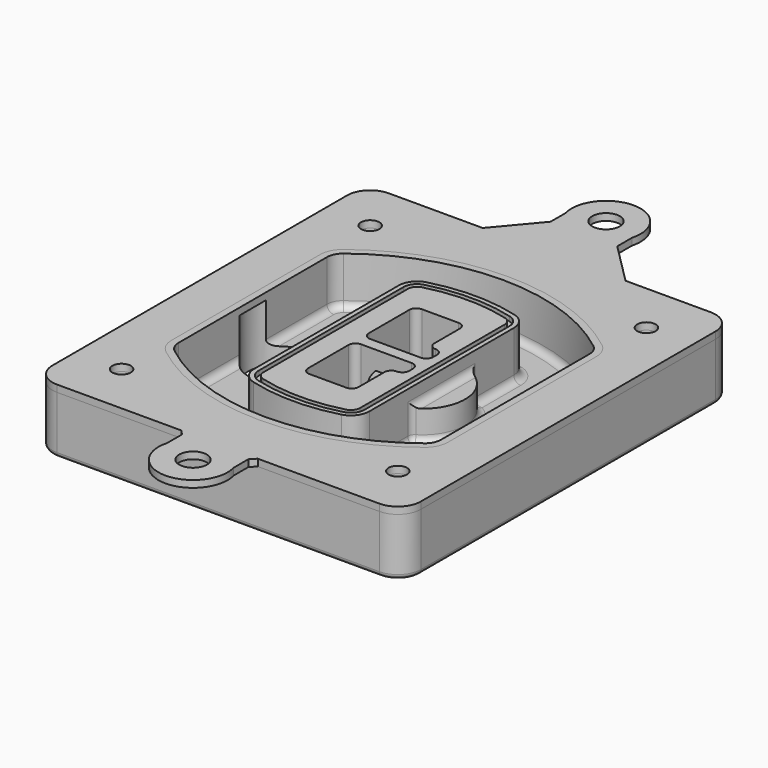
from build123d import *

# Parameters (mm, degrees)
F0_R      = 4
F1_DEPTH  = 25
F2_DEPTH  = 3
F3_DEPTH  = 18
F5_DEPTH  = 21
F6_DEPTH  = 2
F8_DEPTH  = 20
F9_DEPTH  = 16
F10_DEPTH = 25
F7_R      = 6
F7_R_2    = 4
F11_DEPTH = 6
F13_DEPTH = 9
F14_R     = 3
F15_R     = 2
F16_R     = 4
F16_R_2   = 6
F17_DEPTH = 3


with BuildPart() as f1:
    # F0 (on Top) → F1 (new body)
    with BuildSketch(Plane.XY):
        with BuildLine():
            ThreePointArc((-80, -80), (-77.0710678119, -87.0710678119), (-70, -90))
            Line((-70, -90), (70, -90))
            ThreePointArc((70, -90), (77.0710678119, -87.0710678119), (80, -80))
            Line((80, -80), (80, 80))
            ThreePointArc((80, 80), (77.0710678119, 87.0710678119), (70, 90))
            Line((70, 90), (-70, 90))
            ThreePointArc((-70, 90), (-77.0710678119, 87.0710678119), (-80, 80))
            Line((-80, 80), (-80, -80))
        make_face()
        with Locations((-60, -67.5)):
            Circle(F0_R, mode=Mode.SUBTRACT)
        with Locations((60, -67.5)):
            Circle(F0_R, mode=Mode.SUBTRACT)
        with Locations((-60, 67.5)):
            Circle(F0_R, mode=Mode.SUBTRACT)
        with BuildLine():
            ThreePointArc((-64, 40.2934422872), (-62.5820384798, 46.4328484224), (-58.6153846154, 51.3286200352))
            ThreePointArc((-58.6153846154, 51.3286200352), (0, 71.5), (58.6153846154, 51.3286200352))
            ThreePointArc((58.6153846154, 51.3286200352), (62.5820384798, 46.4328484224), (64, 40.2934422872))
            Line((64, 40.2934422872), (64, -40.2934422872))
            ThreePointArc((64, -40.2934422872), (62.5820384798, -46.4328484224), (58.6153846154, -51.3286200352))
            ThreePointArc((58.6153846154, -51.3286200352), (0, -71.5), (-58.6153846154, -51.3286200352))
            ThreePointArc((-58.6153846154, -51.3286200352), (-62.5820384798, -46.4328484224), (-64, -40.2934422872))
            Line((-64, -40.2934422872), (-64, 40.2934422872))
        make_face(mode=Mode.SUBTRACT)
        with Locations((60, 67.5)):
            Circle(F0_R, mode=Mode.SUBTRACT)
        with BuildLine():
            ThreePointArc((58.6153846154, 51.3286200352), (0, 71.5), (-58.6153846154, 51.3286200352))
            ThreePointArc((-58.6153846154, 51.3286200352), (-62.5820384798, 46.4328484224), (-64, 40.2934422872))
            Line((-64, 40.2934422872), (-64, -40.2934422872))
            ThreePointArc((-64, -40.2934422872), (-62.5820384798, -46.4328484224), (-58.6153846154, -51.3286200352))
            ThreePointArc((-58.6153846154, -51.3286200352), (0, -71.5), (58.6153846154, -51.3286200352))
            ThreePointArc((58.6153846154, -51.3286200352), (62.5820384798, -46.4328484224), (64, -40.2934422872))
            Line((64, -40.2934422872), (64, 40.2934422872))
            ThreePointArc((64, 40.2934422872), (62.5820384798, 46.4328484224), (58.6153846154, 51.3286200352))
        make_face()
        with BuildLine():
            Line((-60, -40.2934422872), (-60, 40.2934422872))
            ThreePointArc((-60, 40.2934422872), (-58.9871703427, 44.6787323838), (-56.1538461538, 48.1757121072))
            ThreePointArc((-56.1538461538, 48.1757121072), (0, 67.5), (56.1538461538, 48.1757121072))
            ThreePointArc((56.1538461538, 48.1757121072), (58.9871703427, 44.6787323838), (60, 40.2934422872))
            Line((60, 40.2934422872), (60, -40.2934422872))
            ThreePointArc((60, -40.2934422872), (58.9871703427, -44.6787323838), (56.1538461538, -48.1757121072))
            ThreePointArc((56.1538461538, -48.1757121072), (0, -67.5), (-56.1538461538, -48.1757121072))
            ThreePointArc((-56.1538461538, -48.1757121072), (-58.9871703427, -44.6787323838), (-60, -40.2934422872))
        make_face(mode=Mode.SUBTRACT)
        with BuildLine():
            ThreePointArc((-56.1538461538, 48.1757121072), (-58.9871703427, 44.6787323838), (-60, 40.2934422872))
            Line((-60, 40.2934422872), (-60, -40.2934422872))
            ThreePointArc((-60, -40.2934422872), (-58.9871703427, -44.6787323838), (-56.1538461538, -48.1757121072))
            ThreePointArc((-56.1538461538, -48.1757121072), (0, -67.5), (56.1538461538, -48.1757121072))
            ThreePointArc((56.1538461538, -48.1757121072), (58.9871703427, -44.6787323838), (60, -40.2934422872))
            Line((60, -40.2934422872), (60, 40.2934422872))
            ThreePointArc((60, 40.2934422872), (58.9871703427, 44.6787323838), (56.1538461538, 48.1757121072))
            ThreePointArc((56.1538461538, 48.1757121072), (0, 67.5), (-56.1538461538, 48.1757121072))
        make_face()
        with BuildLine():
            ThreePointArc((54.3076923077, 45.8110311612), (56.2910192399, 43.3631453548), (57, 40.2934422872))
            Line((57, 40.2934422872), (57, -40.2934422872))
            ThreePointArc((57, -40.2934422872), (56.2910192399, -43.3631453548), (54.3076923077, -45.8110311612))
            ThreePointArc((54.3076923077, -45.8110311612), (0, -64.5), (-54.3076923077, -45.8110311612))
            ThreePointArc((-54.3076923077, -45.8110311612), (-56.2910192399, -43.3631453548), (-57, -40.2934422872))
            Line((-57, -40.2934422872), (-57, 40.2934422872))
            ThreePointArc((-57, 40.2934422872), (-56.2910192399, 43.3631453548), (-54.3076923077, 45.8110311612))
            ThreePointArc((-54.3076923077, 45.8110311612), (0, 64.5), (54.3076923077, 45.8110311612))
        make_face(mode=Mode.SUBTRACT)
        with BuildLine():
            Line((57, -40.2934422872), (57, 40.2934422872))
            ThreePointArc((57, 40.2934422872), (56.2910192399, 43.3631453548), (54.3076923077, 45.8110311612))
            ThreePointArc((54.3076923077, 45.8110311612), (0, 64.5), (-54.3076923077, 45.8110311612))
            ThreePointArc((-54.3076923077, 45.8110311612), (-56.2910192399, 43.3631453548), (-57, 40.2934422872))
            Line((-57, 40.2934422872), (-57, -40.2934422872))
            ThreePointArc((-57, -40.2934422872), (-56.2910192399, -43.3631453548), (-54.3076923077, -45.8110311612))
            ThreePointArc((-54.3076923077, -45.8110311612), (0, -64.5), (54.3076923077, -45.8110311612))
            ThreePointArc((54.3076923077, -45.8110311612), (56.2910192399, -43.3631453548), (57, -40.2934422872))
        make_face()
    extrude(amount=-F1_DEPTH)

    # F0 (on Top) → F2 (join)
    with BuildSketch(Plane.XY):
        with BuildLine():
            ThreePointArc((-56.1538461538, 48.1757121072), (-58.9871703427, 44.6787323838), (-60, 40.2934422872))
            Line((-60, 40.2934422872), (-60, -40.2934422872))
            ThreePointArc((-60, -40.2934422872), (-58.9871703427, -44.6787323838), (-56.1538461538, -48.1757121072))
            ThreePointArc((-56.1538461538, -48.1757121072), (0, -67.5), (56.1538461538, -48.1757121072))
            ThreePointArc((56.1538461538, -48.1757121072), (58.9871703427, -44.6787323838), (60, -40.2934422872))
            Line((60, -40.2934422872), (60, 40.2934422872))
            ThreePointArc((60, 40.2934422872), (58.9871703427, 44.6787323838), (56.1538461538, 48.1757121072))
            ThreePointArc((56.1538461538, 48.1757121072), (0, 67.5), (-56.1538461538, 48.1757121072))
        make_face()
        with BuildLine():
            ThreePointArc((54.3076923077, 45.8110311612), (56.2910192399, 43.3631453548), (57, 40.2934422872))
            Line((57, 40.2934422872), (57, -40.2934422872))
            ThreePointArc((57, -40.2934422872), (56.2910192399, -43.3631453548), (54.3076923077, -45.8110311612))
            ThreePointArc((54.3076923077, -45.8110311612), (0, -64.5), (-54.3076923077, -45.8110311612))
            ThreePointArc((-54.3076923077, -45.8110311612), (-56.2910192399, -43.3631453548), (-57, -40.2934422872))
            Line((-57, -40.2934422872), (-57, 40.2934422872))
            ThreePointArc((-57, 40.2934422872), (-56.2910192399, 43.3631453548), (-54.3076923077, 45.8110311612))
            ThreePointArc((-54.3076923077, 45.8110311612), (0, 64.5), (54.3076923077, 45.8110311612))
        make_face(mode=Mode.SUBTRACT)
    extrude(amount=F2_DEPTH)

    # F0 (on Top) → F3 (cut)
    with BuildSketch(Plane.XY):
        with BuildLine():
            Line((57, -40.2934422872), (57, 40.2934422872))
            ThreePointArc((57, 40.2934422872), (56.2910192399, 43.3631453548), (54.3076923077, 45.8110311612))
            ThreePointArc((54.3076923077, 45.8110311612), (0, 64.5), (-54.3076923077, 45.8110311612))
            ThreePointArc((-54.3076923077, 45.8110311612), (-56.2910192399, 43.3631453548), (-57, 40.2934422872))
            Line((-57, 40.2934422872), (-57, -40.2934422872))
            ThreePointArc((-57, -40.2934422872), (-56.2910192399, -43.3631453548), (-54.3076923077, -45.8110311612))
            ThreePointArc((-54.3076923077, -45.8110311612), (0, -64.5), (54.3076923077, -45.8110311612))
            ThreePointArc((54.3076923077, -45.8110311612), (56.2910192399, -43.3631453548), (57, -40.2934422872))
        make_face()
    extrude(amount=-F3_DEPTH, mode=Mode.SUBTRACT)

    # F4 (on face) → F5 (join, through all)
    with BuildSketch(Plane.XY.offset(3)):
        with BuildLine():
            ThreePointArc((-25, -39.2465276821), (-23.3511545998, -44.1109737193), (-19.0842911877, -46.9702398883))
            ThreePointArc((-19.0842911877, -46.9702398883), (0, -49.5), (19.0842911877, -46.9702398883))
            ThreePointArc((19.0842911877, -46.9702398883), (23.3511545998, -44.1109737193), (25, -39.2465276821))
            Line((25, -39.2465276821), (25, 39.2465276821))
            ThreePointArc((25, 39.2465276821), (23.3511545998, 44.1109737193), (19.0842911877, 46.9702398883))
            ThreePointArc((19.0842911877, 46.9702398883), (0, 49.5), (-19.0842911877, 46.9702398883))
            ThreePointArc((-19.0842911877, 46.9702398883), (-23.3511545998, 44.1109737193), (-25, 39.2465276821))
            Line((-25, 39.2465276821), (-25, -39.2465276821))
        make_face()
        with BuildLine():
            ThreePointArc((18.5632183908, 45.0393118368), (21.7633659499, 42.89486221), (23, 39.2465276821))
            Line((23, 39.2465276821), (23, -39.2465276821))
            ThreePointArc((23, -39.2465276821), (21.7633659499, -42.89486221), (18.5632183908, -45.0393118368))
            ThreePointArc((18.5632183908, -45.0393118368), (0, -47.5), (-18.5632183908, -45.0393118368))
            ThreePointArc((-18.5632183908, -45.0393118368), (-21.7633659499, -42.89486221), (-23, -39.2465276821))
            Line((-23, -39.2465276821), (-23, 39.2465276821))
            ThreePointArc((-23, 39.2465276821), (-21.7633659499, 42.89486221), (-18.5632183908, 45.0393118368))
            ThreePointArc((-18.5632183908, 45.0393118368), (0, 47.5), (18.5632183908, 45.0393118368))
        make_face(mode=Mode.SUBTRACT)
        with BuildLine():
            Line((23, -39.2465276821), (23, 39.2465276821))
            ThreePointArc((23, 39.2465276821), (21.7633659499, 42.89486221), (18.5632183908, 45.0393118368))
            ThreePointArc((18.5632183908, 45.0393118368), (0, 47.5), (-18.5632183908, 45.0393118368))
            ThreePointArc((-18.5632183908, 45.0393118368), (-21.7633659499, 42.89486221), (-23, 39.2465276821))
            Line((-23, 39.2465276821), (-23, -39.2465276821))
            ThreePointArc((-23, -39.2465276821), (-21.7633659499, -42.89486221), (-18.5632183908, -45.0393118368))
            ThreePointArc((-18.5632183908, -45.0393118368), (0, -47.5), (18.5632183908, -45.0393118368))
            ThreePointArc((18.5632183908, -45.0393118368), (21.7633659499, -42.89486221), (23, -39.2465276821))
        make_face()
        with BuildLine():
            ThreePointArc((18.0421455939, 43.1083837852), (20.1755772999, 41.6787507007), (21, 39.2465276821))
            Line((21, 39.2465276821), (21, -39.2465276821))
            ThreePointArc((21, -39.2465276821), (20.1755772999, -41.6787507007), (18.0421455939, -43.1083837852))
            ThreePointArc((18.0421455939, -43.1083837852), (0, -45.5), (-18.0421455939, -43.1083837852))
            ThreePointArc((-18.0421455939, -43.1083837852), (-20.1755772999, -41.6787507007), (-21, -39.2465276821))
            Line((-21, -39.2465276821), (-21, 39.2465276821))
            ThreePointArc((-21, 39.2465276821), (-20.1755772999, 41.6787507007), (-18.0421455939, 43.1083837852))
            ThreePointArc((-18.0421455939, 43.1083837852), (0, 45.5), (18.0421455939, 43.1083837852))
        make_face(mode=Mode.SUBTRACT)
        with BuildLine():
            Line((21, -39.2465276821), (21, 39.2465276821))
            ThreePointArc((21, 39.2465276821), (20.1755772999, 41.6787507007), (18.0421455939, 43.1083837852))
            ThreePointArc((18.0421455939, 43.1083837852), (0, 45.5), (-18.0421455939, 43.1083837852))
            ThreePointArc((-18.0421455939, 43.1083837852), (-20.1755772999, 41.6787507007), (-21, 39.2465276821))
            Line((-21, 39.2465276821), (-21, -39.2465276821))
            ThreePointArc((-21, -39.2465276821), (-20.1755772999, -41.6787507007), (-18.0421455939, -43.1083837852))
            ThreePointArc((-18.0421455939, -43.1083837852), (0, -45.5), (18.0421455939, -43.1083837852))
            ThreePointArc((18.0421455939, -43.1083837852), (20.1755772999, -41.6787507007), (21, -39.2465276821))
        make_face()
        with BuildLine():
            Line((-8, -2.5), (14, -2.5))
            ThreePointArc((14, -2.5), (16.1213203436, -3.3786796564), (17, -5.5))
            Line((17, -5.5), (17, -7.5))
            ThreePointArc((17, -7.5), (16.1213203436, -9.6213203436), (14, -10.5))
            ThreePointArc((14, -10.5), (11.8786796564, -11.3786796564), (11, -13.5))
            Line((11, -13.5), (11, -27.5))
            ThreePointArc((11, -27.5), (10.1213203436, -29.6213203436), (8, -30.5))
            Line((8, -30.5), (-8, -30.5))
            ThreePointArc((-8, -30.5), (-10.1213203436, -29.6213203436), (-11, -27.5))
            Line((-11, -27.5), (-11, -5.5))
            ThreePointArc((-11, -5.5), (-10.1213203436, -3.3786796564), (-8, -2.5))
        make_face(mode=Mode.SUBTRACT)
        with BuildLine():
            ThreePointArc((-8, 2.5), (-10.1213203436, 3.3786796564), (-11, 5.5))
            Line((-11, 5.5), (-11, 27.5))
            ThreePointArc((-11, 27.5), (-10.1213203436, 29.6213203436), (-8, 30.5))
            Line((-8, 30.5), (8, 30.5))
            ThreePointArc((8, 30.5), (10.1213203436, 29.6213203436), (11, 27.5))
            Line((11, 27.5), (11, 13.5))
            ThreePointArc((11, 13.5), (11.8786796564, 11.3786796564), (14, 10.5))
            ThreePointArc((14, 10.5), (16.1213203436, 9.6213203436), (17, 7.5))
            Line((17, 7.5), (17, 5.5))
            ThreePointArc((17, 5.5), (16.1213203436, 3.3786796564), (14, 2.5))
            Line((14, 2.5), (-8, 2.5))
        make_face(mode=Mode.SUBTRACT)
    extrude(amount=-F5_DEPTH)

    # F4 (on face) → F6 (cut)
    with BuildSketch(Plane.XY.offset(3)):
        with BuildLine():
            Line((23, -39.2465276821), (23, 39.2465276821))
            ThreePointArc((23, 39.2465276821), (21.7633659499, 42.89486221), (18.5632183908, 45.0393118368))
            ThreePointArc((18.5632183908, 45.0393118368), (0, 47.5), (-18.5632183908, 45.0393118368))
            ThreePointArc((-18.5632183908, 45.0393118368), (-21.7633659499, 42.89486221), (-23, 39.2465276821))
            Line((-23, 39.2465276821), (-23, -39.2465276821))
            ThreePointArc((-23, -39.2465276821), (-21.7633659499, -42.89486221), (-18.5632183908, -45.0393118368))
            ThreePointArc((-18.5632183908, -45.0393118368), (0, -47.5), (18.5632183908, -45.0393118368))
            ThreePointArc((18.5632183908, -45.0393118368), (21.7633659499, -42.89486221), (23, -39.2465276821))
        make_face()
        with BuildLine():
            ThreePointArc((18.0421455939, 43.1083837852), (20.1755772999, 41.6787507007), (21, 39.2465276821))
            Line((21, 39.2465276821), (21, -39.2465276821))
            ThreePointArc((21, -39.2465276821), (20.1755772999, -41.6787507007), (18.0421455939, -43.1083837852))
            ThreePointArc((18.0421455939, -43.1083837852), (0, -45.5), (-18.0421455939, -43.1083837852))
            ThreePointArc((-18.0421455939, -43.1083837852), (-20.1755772999, -41.6787507007), (-21, -39.2465276821))
            Line((-21, -39.2465276821), (-21, 39.2465276821))
            ThreePointArc((-21, 39.2465276821), (-20.1755772999, 41.6787507007), (-18.0421455939, 43.1083837852))
            ThreePointArc((-18.0421455939, 43.1083837852), (0, 45.5), (18.0421455939, 43.1083837852))
        make_face(mode=Mode.SUBTRACT)
    extrude(amount=-F6_DEPTH, mode=Mode.SUBTRACT)

    # F7 (on face) → F8 (join)
    with BuildSketch(Plane(origin=(0, 0, -25), x_dir=(1, 0, 0), z_dir=(0, 0, -1))):
        with BuildLine():
            ThreePointArc((3.28842436, 0), (16.7567035675, 13.4682792075), (30.224982775, 0))
            Line((30.224982775, 0), (35.224982775, 0))
            ThreePointArc((35.224982775, 0), (16.7567035675, 18.4682792075), (-1.71157564, 0))
            Line((-1.71157564, 0), (3.28842436, 0))
        make_face()
        with BuildLine():
            Line((3.28842436, 0), (30.224982775, 0))
            ThreePointArc((30.224982775, 0), (16.7567035675, 13.4682792075), (3.28842436, 0))
        make_face()
        with BuildLine():
            ThreePointArc((3.28842436, 0), (16.7567035675, -13.4682792075), (30.224982775, 0))
            Line((30.224982775, 0), (3.28842436, 0))
        make_face()
        with BuildLine():
            Line((35.224982775, 0), (30.224982775, 0))
            ThreePointArc((30.224982775, 0), (16.7567035675, -13.4682792075), (3.28842436, 0))
            Line((3.28842436, 0), (-1.71157564, 0))
            ThreePointArc((-1.71157564, 0), (16.7567035675, -18.4682792075), (35.224982775, 0))
        make_face()
    extrude(amount=-F8_DEPTH)

    # F7 (on face) → F9 (cut)
    with BuildSketch(Plane(origin=(0, 0, -25), x_dir=(1, 0, 0), z_dir=(0, 0, -1))):
        with BuildLine():
            Line((3.28842436, 0), (30.224982775, 0))
            ThreePointArc((30.224982775, 0), (16.7567035675, 13.4682792075), (3.28842436, 0))
        make_face()
        with BuildLine():
            ThreePointArc((3.28842436, 0), (16.7567035675, -13.4682792075), (30.224982775, 0))
            Line((30.224982775, 0), (3.28842436, 0))
        make_face()
    extrude(amount=-F9_DEPTH, mode=Mode.SUBTRACT)

    # F7 (on face) → F10 (cut)
    with BuildSketch(Plane(origin=(0, 0, -25), x_dir=(1, 0, 0), z_dir=(0, 0, -1))):
        with BuildLine():
            Line((-59.0318229325, 0), (-32.0952645175, 0))
            ThreePointArc((-32.0952645175, 0), (-45.563543725, 13.4682792075), (-59.0318229325, 0))
        make_face()
        with BuildLine():
            ThreePointArc((-59.0318229325, 0), (-45.563543725, -13.4682792075), (-32.0952645175, 0))
            Line((-32.0952645175, 0), (-59.0318229325, 0))
        make_face()
    extrude(amount=-F10_DEPTH, mode=Mode.SUBTRACT)

    # F7 (on face) → F11 (cut)
    with BuildSketch(Plane(origin=(0, 0, -25), x_dir=(1, 0, 0), z_dir=(0, 0, -1))):
        with Locations((60, -67.5)):
            Circle(F7_R)
        with Locations((60, -67.5)):
            Circle(F7_R_2, mode=Mode.SUBTRACT)
        with Locations((60, -67.5)):
            Circle(F7_R)
        with Locations((60, -67.5)):
            Circle(F7_R_2, mode=Mode.SUBTRACT)
        with Locations((-60, -67.5)):
            Circle(F7_R)
        with Locations((-60, -67.5)):
            Circle(F7_R_2, mode=Mode.SUBTRACT)
        with Locations((-60, -67.5)):
            Circle(F7_R)
        with Locations((-60, -67.5)):
            Circle(F7_R_2, mode=Mode.SUBTRACT)
        with Locations((-60, 67.5)):
            Circle(F7_R)
        with Locations((-60, 67.5)):
            Circle(F7_R_2, mode=Mode.SUBTRACT)
        with Locations((-60, 67.5)):
            Circle(F7_R)
        with Locations((-60, 67.5)):
            Circle(F7_R_2, mode=Mode.SUBTRACT)
        with Locations((60, 67.5)):
            Circle(F7_R)
        with Locations((60, 67.5)):
            Circle(F7_R_2, mode=Mode.SUBTRACT)
        with Locations((60, 67.5)):
            Circle(F7_R)
        with Locations((60, 67.5)):
            Circle(F7_R_2, mode=Mode.SUBTRACT)
    extrude(amount=-F11_DEPTH, mode=Mode.SUBTRACT)

    # F12 (on face) → F13 (cut, through all)
    with BuildSketch(Plane(origin=(0, 0, -9), x_dir=(1, 0, 0), z_dir=(0, 0, -1))):
        with BuildLine():
            Line((11, 13.5), (11, 17.5481537753))
            ThreePointArc((11, 17.5481537753), (2.5696536419, 11.8239143813), (-1.5415842455, 2.5))
            Line((-1.5415842455, 2.5), (3.5224848595, 2.5))
            ThreePointArc((3.5224848595, 2.5), (6.1857188154, 8.3455872281), (11.2536447004, 12.2927168648))
            ThreePointArc((11.2536447004, 12.2927168648), (11.0640958889, 12.8831798879), (11, 13.5))
        make_face()
        with BuildLine():
            ThreePointArc((11.2536447004, -12.2927168648), (6.1857188154, -8.3455872281), (3.5224848595, -2.5))
            Line((3.5224848595, -2.5), (-1.5415842455, -2.5))
            ThreePointArc((-1.5415842455, -2.5), (2.5696536419, -11.8239143813), (11, -17.5481537753))
            Line((11, -17.5481537753), (11, -13.5))
            ThreePointArc((11, -13.5), (11.0640958889, -12.8831798879), (11.2536447004, -12.2927168648))
        make_face()
        with BuildLine():
            ThreePointArc((11.2536447004, 12.2927168648), (6.1857188154, 8.3455872281), (3.5224848595, 2.5))
            Line((3.5224848595, 2.5), (14, 2.5))
            ThreePointArc((14, 2.5), (16.1213203436, 3.3786796564), (17, 5.5))
            Line((17, 5.5), (17, 7.5))
            ThreePointArc((17, 7.5), (16.1213203436, 9.6213203436), (14, 10.5))
            ThreePointArc((14, 10.5), (12.3601599782, 10.9878446101), (11.2536447004, 12.2927168648))
        make_face()
        with BuildLine():
            Line((14, -2.5), (3.5224848595, -2.5))
            ThreePointArc((3.5224848595, -2.5), (6.1857188154, -8.3455872281), (11.2536447004, -12.2927168648))
            ThreePointArc((11.2536447004, -12.2927168648), (12.3601599782, -10.9878446101), (14, -10.5))
            ThreePointArc((14, -10.5), (16.1213203436, -9.6213203436), (17, -7.5))
            Line((17, -7.5), (17, -5.5))
            ThreePointArc((17, -5.5), (16.1213203436, -3.3786796564), (14, -2.5))
        make_face()
    extrude(amount=F13_DEPTH, mode=Mode.SUBTRACT)

    # F14
    f14_edges = [f1.edges().sort_by_distance(p)[0] for p in [
        (-57, -23.703476, -18),
        (-57, 23.703476, -18),
        (25, 0, -5),
        (25, 16.526506, -11.5),
        (25, -16.526506, -11.5),
        (25, -27.886517, -18),
        (35.224983, 0, -18),
    ]]
    fillet(f14_edges, radius=F14_R)

    # F15
    f15_edges = [f1.edges().sort_by_distance(p)[0] for p in [
        (0, -90, -25),
    ]]
    fillet(f15_edges, radius=F15_R)


with BuildPart() as f17:
    # F16 (on face) → F17 (new body, through all)
    with BuildSketch(Plane.XY):
        with BuildLine():
            Line((-80, 80), (-80, -80))
            ThreePointArc((-80, -80), (-77.0710678119, -87.0710678119), (-70, -90))
            Line((-70, -90), (-15.9094944829, -90))
            Line((-15.9094944829, -90), (17.1680235368, -90))
            Line((17.1680235368, -90), (70, -90))
            ThreePointArc((70, -90), (77.0710678119, -87.0710678119), (80, -80))
            Line((80, -80), (80, 80))
            ThreePointArc((80, 80), (77.0710678119, 87.0710678119), (70, 90))
            Line((70, 90), (32.9180235368, 90))
            Line((32.9180235368, 90), (-29.1247386485, 90))
            Line((-29.1247386485, 90), (-70, 90))
            ThreePointArc((-70, 90), (-77.0710678119, 87.0710678119), (-80, 80))
        make_face()
        with Locations((-60, -67.5)):
            Circle(F16_R, mode=Mode.SUBTRACT)
        with Locations((60, -67.5)):
            Circle(F16_R, mode=Mode.SUBTRACT)
        with BuildLine():
            ThreePointArc((-56.1538461538, 48.1757121072), (0, 67.5), (56.1538461538, 48.1757121072))
            ThreePointArc((56.1538461538, 48.1757121072), (58.9871703427, 44.6787323838), (60, 40.2934422872))
            Line((60, 40.2934422872), (60, -40.2934422872))
            ThreePointArc((60, -40.2934422872), (58.9871703427, -44.6787323838), (56.1538461538, -48.1757121072))
            ThreePointArc((56.1538461538, -48.1757121072), (0, -67.5), (-56.1538461538, -48.1757121072))
            ThreePointArc((-56.1538461538, -48.1757121072), (-58.9871703427, -44.6787323838), (-60, -40.2934422872))
            Line((-60, -40.2934422872), (-60, 40.2934422872))
            ThreePointArc((-60, 40.2934422872), (-58.9871703427, 44.6787323838), (-56.1538461538, 48.1757121072))
        make_face(mode=Mode.SUBTRACT)
        with Locations((-60, 67.5)):
            Circle(F16_R, mode=Mode.SUBTRACT)
        with Locations((60, 67.5)):
            Circle(F16_R, mode=Mode.SUBTRACT)
        with BuildLine():
            Line((17.1680235368, -90), (-15.9094944829, -90))
            Line((-15.9094944829, -90), (-14.0216024593, -92.25))
            Line((-14.0216024593, -92.25), (-14.0216024593, -100.2972146779))
            ThreePointArc((-14.0216024593, -100.2972146779), (0.4482105388, -119.25), (14.9180235368, -100.2972146779))
            Line((14.9180235368, -100.2972146779), (14.9180235368, -92.25))
            Line((14.9180235368, -92.25), (17.1680235368, -90))
        make_face()
        with Locations((0.4482105388, -104.25)):
            Circle(F16_R_2, mode=Mode.SUBTRACT)
        with BuildLine():
            Line((-14.0216024593, 108), (-29.1247386485, 90))
            Line((-29.1247386485, 90), (32.9180235368, 90))
            Line((32.9180235368, 90), (14.9180235368, 108))
            Line((14.9180235368, 108), (14.9180235368, 116.0472146779))
            ThreePointArc((14.9180235368, 116.0472146779), (0.4482105388, 135), (-14.0216024593, 116.0472146779))
            Line((-14.0216024593, 116.0472146779), (-14.0216024593, 108))
        make_face()
        with Locations((0.4482105388, 120)):
            Circle(F16_R_2, mode=Mode.SUBTRACT)
    extrude(amount=F17_DEPTH)


solid = Compound([f1.part, f17.part])
